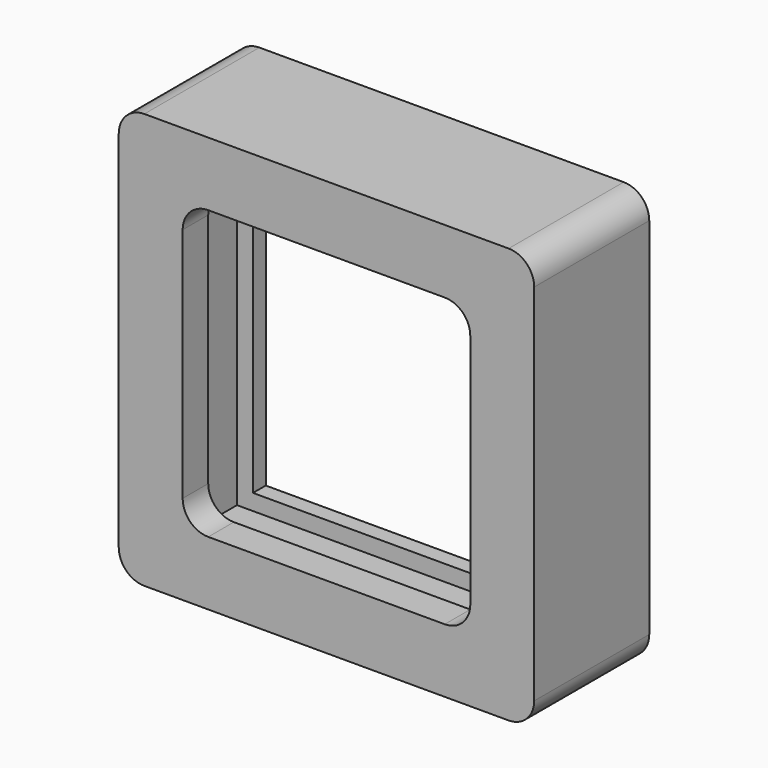
from build123d import *

# Parameters (mm, degrees)
F0_W     = 82.55
F0_H     = 82.55
F0_W_2   = 57.15
F0_H_2   = 57.15
F1_DEPTH = 6.35
F2_W     = 82.55
F2_H     = 82.55
F2_W_2   = 76.2
F2_H_2   = 76.2
F3_DEPTH = 19.05
F4_W     = 82.55
F4_H     = 82.55
F4_W_2   = 69.85
F4_H_2   = 69.85
F5_DEPTH = 3.175
F6_R     = 5.08
F7_R     = 5.08


with BuildPart() as f1:
    # F0 (on Front) → F1 (new body)
    with BuildSketch(Plane.XZ):
        Rectangle(F0_W, F0_H)
        Rectangle(F0_W_2, F0_H_2, mode=Mode.SUBTRACT)
    extrude(amount=F1_DEPTH)

    # F2 (on face) → F3 (join)
    with BuildSketch(Plane(origin=(0, 0, 0), x_dir=(-1, 0, 0), z_dir=(0, 1, 0))):
        Rectangle(F2_W, F2_H)
        Rectangle(F2_W_2, F2_H_2, mode=Mode.SUBTRACT)
    extrude(amount=F3_DEPTH)

    # F4 (on face) → F5 (join)
    with BuildSketch(Plane(origin=(0, 19.05, 0), x_dir=(-1, 0, 0), z_dir=(0, 1, 0))):
        Rectangle(F4_W, F4_H)
        Rectangle(F4_W_2, F4_H_2, mode=Mode.SUBTRACT)
    extrude(amount=F5_DEPTH)

    # F6
    f6_edges = [f1.edges().sort_by_distance(p)[0] for p in [
        (41.275, 7.9375, -41.275),
        (41.275, 7.9375, 41.275),
        (-41.275, 7.9375, 41.275),
        (-41.275, 7.9375, -41.275),
    ]]
    fillet(f6_edges, radius=F6_R)

    # F7
    f7_edges = [f1.edges().sort_by_distance(p)[0] for p in [
        (-28.575, -3.175, -28.575),
        (28.575, -3.175, -28.575),
        (28.575, -3.175, 28.575),
        (-28.575, -3.175, 28.575),
    ]]
    fillet(f7_edges, radius=F7_R)


solid = f1.part
